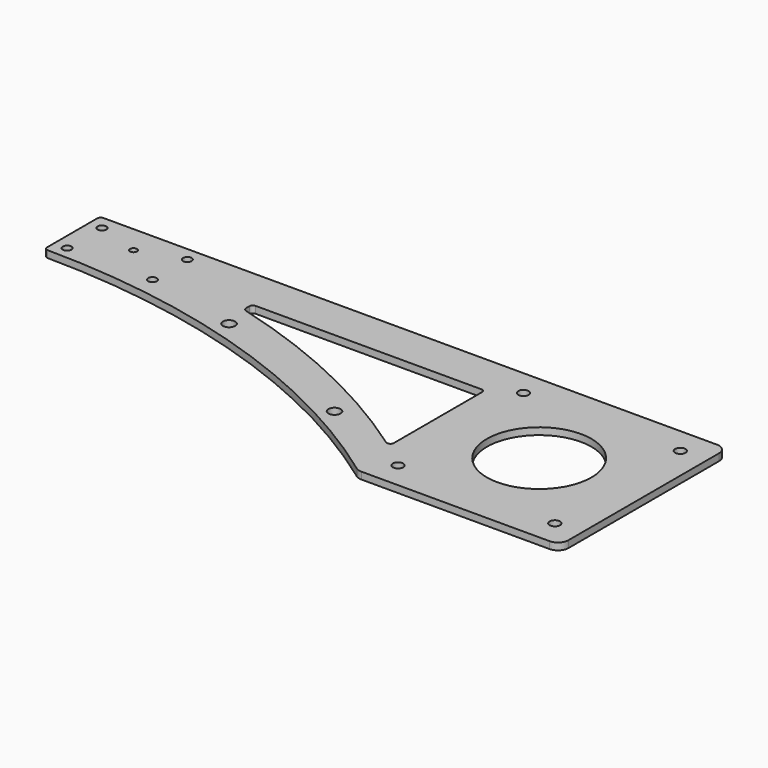
from build123d import *

# Parameters (mm, degrees)
SKETCH001_R     = 15
SKETCH001_R_2   = 1.5
PAD002_DEPTH    = 2
FILLET002_R     = 3
SKETCH006_R     = 1.25
HOLE_DEPTH      = 25
SKETCH007_R     = 1
POCKET004_DEPTH = 2.001
SKETCH008_R     = 1.75
POCKET005_DEPTH = 2.001
FILLET003_R     = 1
POCKET007_DEPTH = 2.001
FILLET004_R     = 1


with BuildPart() as part:
    # Sketch001 → Pad002 (new body)
    with BuildSketch(Plane.XY):
        with BuildLine():
            Line((-150, 30), (30, 30))
            Line((30, 30), (30, -30))
            Line((30, -30), (-28, -30))
            ThreePointArc((-28, -30), (-85.804985, -0.255203), (-150, 10))
            Line((-150, 30), (-150, 10))
        make_face()
        Circle(SKETCH001_R, mode=Mode.SUBTRACT)
        with Locations((-22.5, 22.5)):
            Circle(SKETCH001_R_2, mode=Mode.SUBTRACT)
        with Locations((22.5, 22.5)):
            Circle(SKETCH001_R_2, mode=Mode.SUBTRACT)
        with Locations((-22.5, -22.5)):
            Circle(SKETCH001_R_2, mode=Mode.SUBTRACT)
        with Locations((22.5, -22.5)):
            Circle(SKETCH001_R_2, mode=Mode.SUBTRACT)
    extrude(amount=PAD002_DEPTH)

    # Fillet002
    fillet002_edges = [part.edges().sort_by_distance(p)[0] for p in [
        (-28, -30, 1),
        (30, -30, 1),
        (30, 30, 1),
    ]]
    fillet(fillet002_edges, radius=FILLET002_R)

    # Sketch006 (on Face5 of Fillet002) → Hole (cut)
    with BuildSketch(Plane.XY.offset(2)):
        with Locations((-146.25, 26)):
            Circle(SKETCH006_R)
        with Locations((-121.75, 26)):
            Circle(SKETCH006_R)
        with Locations((-121.75, 13.5)):
            Circle(SKETCH006_R)
        with Locations((-146.25, 13.5)):
            Circle(SKETCH006_R)
    extrude(amount=-HOLE_DEPTH, mode=Mode.SUBTRACT)

    # Sketch007 (on Face5 of Hole) → Pocket004 (cut, through all)
    with BuildSketch(Plane.XY.offset(2)):
        with Locations((-134, 22)):
            Circle(SKETCH007_R)
    extrude(amount=-POCKET004_DEPTH, mode=Mode.SUBTRACT)

    # Sketch008 (on Face5 of Pocket004) → Pocket005 (cut, through all)
    with BuildSketch(Plane.XY.offset(2)):
        with Locations((-95, 7.523922)):
            Circle(SKETCH008_R)
        with Locations((-50, -10.892839)):
            Circle(SKETCH008_R)
    extrude(amount=-POCKET005_DEPTH, mode=Mode.SUBTRACT)

    # Fillet003
    fillet003_edges = [part.edges().sort_by_distance(p)[0] for p in [
        (-150, 30, 1),
        (-150, 10, 1),
    ]]
    fillet(fillet003_edges, radius=FILLET003_R)

    # Sketch010 (on Face5 of Fillet003) → Pocket007 (cut, through all)
    with BuildSketch(Plane.XY.offset(2)):
        with BuildLine():
            ThreePointArc((-30, -16.548948), (-61.949807, 2.239468), (-96.748709, 15))
            Line((-96.748709, 18), (-96.748709, 15))
            Line((-30, 18), (-96.748709, 18))
            Line((-30, -16.548948), (-30, 18))
        make_face()
    extrude(amount=-POCKET007_DEPTH, mode=Mode.SUBTRACT)

    # Fillet004
    fillet004_edges = [part.edges().sort_by_distance(p)[0] for p in [
        (-30, 18, 1),
        (-96.748709, 18, 1),
        (-96.748709, 15, 1),
        (-30, -16.548948, 1),
    ]]
    fillet(fillet004_edges, radius=FILLET004_R)


with BuildPart() as part_1:
    # Body002 placement: moved
    add(part.part.moved(Location((0, 0, -12))))


solid = part_1.part
